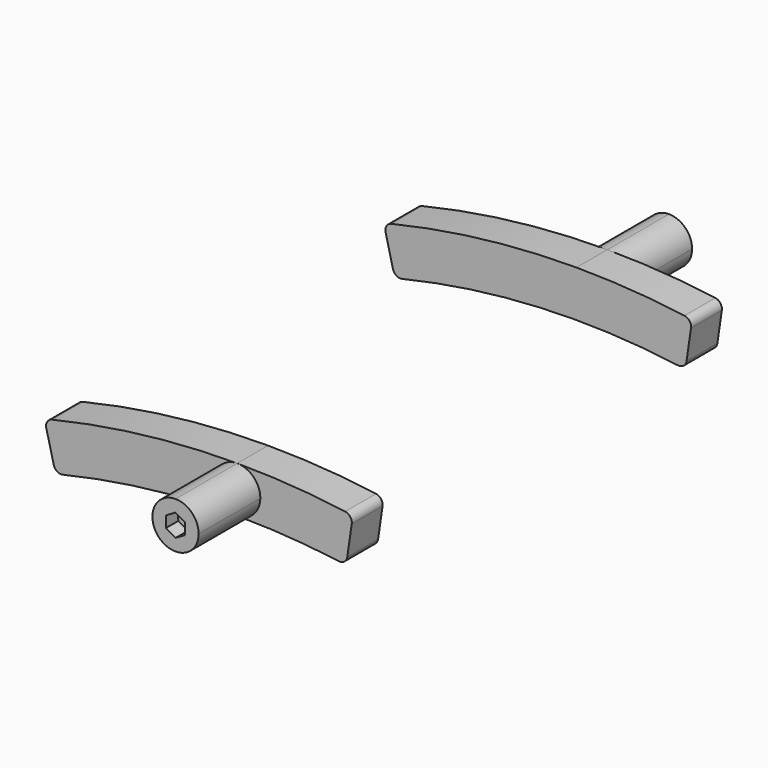
from build123d import *

# Parameters (mm, degrees)
F1_DEPTH = 10
F2_DEPTH = 30
F4_DEPTH = 4


with BuildPart() as f1:
    # F0 (on Front) → F1 (new body)
    with BuildSketch(Plane.XZ):
        with BuildLine():
            ThreePointArc((-45.1846064491, 190.2067331617), (-22.7467983043, 194.1721740284), (1.54e-08, 195.5))
            ThreePointArc((1.54e-08, 195.5), (-6, 201.4999999777), (-2.92e-08, 207.5))
            ThreePointArc((-2.92e-08, 207.5), (-24.1836455313, 206.0859075454), (-48.037672618, 201.8629039954))
            ThreePointArc((-48.037672618, 201.8629039954), (-49.2829346167, 200.9573307622), (-49.5157270866, 199.43530974))
            Line((-49.5157270866, 199.43530974), (-47.5879212429, 191.6706543834))
            ThreePointArc((-47.5879212429, 191.6706543834), (-46.6872830902, 190.4445114408), (-45.1846064491, 190.2067331617))
        make_face()
        with BuildLine():
            ThreePointArc((-2.92e-08, 207.5), (-6, 201.4999999777), (1.54e-08, 195.5))
            Line((0, 195.5), (0, 198.5))
            ThreePointArc((0, 198.5), (-3, 201.5), (0, 204.5))
            Line((0, 204.5), (0, 207.5))
        make_face()
        with BuildLine():
            Line((0, 204.5), (0, 198.5))
            ThreePointArc((0, 198.5), (2.1213203436, 199.3786796564), (3, 201.5))
            ThreePointArc((3, 201.5), (2.1213203436, 203.6213203436), (0, 204.5))
        make_face()
        with BuildLine():
            ThreePointArc((0, 204.5), (-3, 201.5), (0, 198.5))
            Line((0, 198.5), (0, 204.5))
        make_face()
        with BuildLine():
            Line((0, 198.5), (0, 195.5))
            ThreePointArc((1.54e-08, 195.5), (4.2426406926, 197.2573593183), (6, 201.5))
            ThreePointArc((6, 201.5), (4.2426406768, 205.7426406975), (-2.92e-08, 207.5))
            Line((0, 207.5), (0, 204.5))
            ThreePointArc((0, 204.5), (2.1213203436, 203.6213203436), (3, 201.5))
            ThreePointArc((3, 201.5), (2.1213203436, 199.3786796564), (0, 198.5))
        make_face()
        with BuildLine():
            ThreePointArc((6, 201.5), (4.2426406926, 197.2573593183), (1.54e-08, 195.5))
            ThreePointArc((1.54e-08, 195.5), (13.1823341475, 195.0550590639), (26.3046645958, 193.7222615512))
            ThreePointArc((26.3046645958, 193.7222615512), (27.7767617356, 194.1063261405), (28.5527527457, 195.4149183421))
            Line((28.5527527457, 195.4149183421), (29.709436252, 203.3312553386))
            ThreePointArc((29.709436252, 203.3312553386), (29.3284354626, 204.823092704), (28.0003322506, 205.6021191376))
            ThreePointArc((28.0003322506, 205.6021191376), (14.03228916, 207.0249860788), (-2.92e-08, 207.5))
            ThreePointArc((-2.92e-08, 207.5), (4.2426406768, 205.7426406975), (6, 201.5))
        make_face()
    extrude(amount=F1_DEPTH)

    # F0 (on Front) → F2 (join)
    with BuildSketch(Plane.XZ):
        with BuildLine():
            ThreePointArc((0, 204.5), (-3, 201.5), (0, 198.5))
            Line((0, 198.5), (0, 204.5))
        make_face()
        with BuildLine():
            Line((0, 204.5), (0, 198.5))
            ThreePointArc((0, 198.5), (2.1213203436, 199.3786796564), (3, 201.5))
            ThreePointArc((3, 201.5), (2.1213203436, 203.6213203436), (0, 204.5))
        make_face()
        with BuildLine():
            ThreePointArc((-2.92e-08, 207.5), (-6, 201.4999999777), (1.54e-08, 195.5))
            Line((0, 195.5), (0, 198.5))
            ThreePointArc((0, 198.5), (-3, 201.5), (0, 204.5))
            Line((0, 204.5), (0, 207.5))
        make_face()
        with BuildLine():
            Line((0, 198.5), (0, 195.5))
            ThreePointArc((1.54e-08, 195.5), (4.2426406926, 197.2573593183), (6, 201.5))
            ThreePointArc((6, 201.5), (4.2426406768, 205.7426406975), (-2.92e-08, 207.5))
            Line((0, 207.5), (0, 204.5))
            ThreePointArc((0, 204.5), (2.1213203436, 203.6213203436), (3, 201.5))
            ThreePointArc((3, 201.5), (2.1213203436, 199.3786796564), (0, 198.5))
        make_face()
    extrude(amount=F2_DEPTH)

    # F3 (on face) → F4 (cut)
    with BuildSketch(Plane.XZ.offset(30)):
        Polygon((0.0226020234, 198.6133371375), (2.5112243828, 200.0762424952), (2.4886223594, 202.9629053577), (-0.0226020234, 204.3866628625), (-2.5112243828, 202.9237575048), (-2.4886223594, 200.0370946423), align=None)
    extrude(amount=-F4_DEPTH, mode=Mode.SUBTRACT)


with BuildPart() as f6_1:
    # F6: instance of F1
    add(f1.part.mirror(Plane.XZ.offset(-50)))


solid = Compound([f1.part, f6_1.part])
